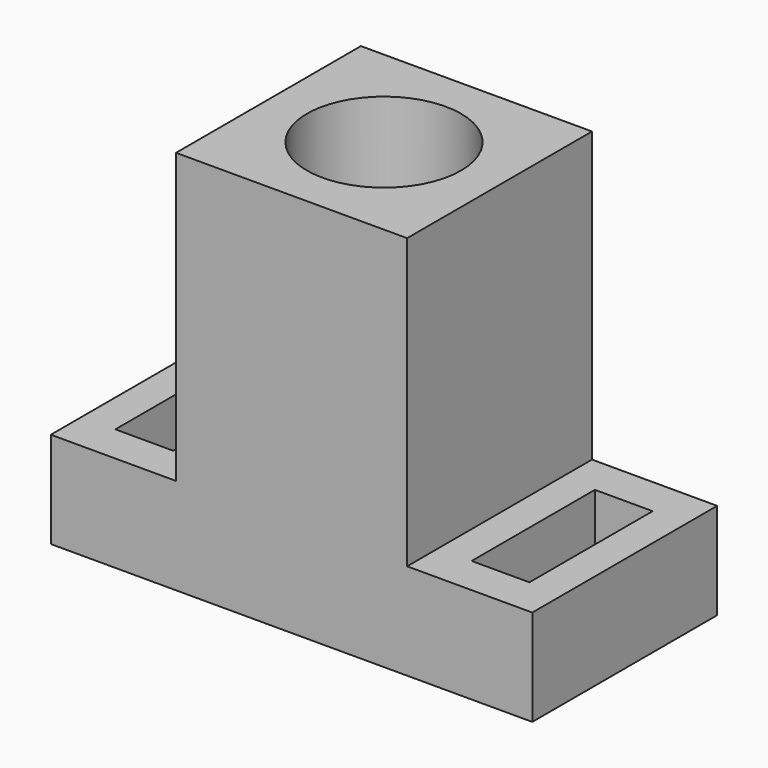
from build123d import *

# Parameters (mm, degrees)
F0_W     = 12
F0_H     = 12
F0_R     = 4
F1_DEPTH = 15
F2_W     = 25
F2_H     = 12
F3_DEPTH = 5
F4_W     = 3
F4_H     = 8
F5_DEPTH = 5


with BuildPart() as f1:
    # F0 (on Top) → F1 (new body)
    with BuildSketch(Plane.XY):
        Rectangle(F0_W, F0_H)
        Circle(F0_R, mode=Mode.SUBTRACT)
    extrude(amount=F1_DEPTH)

    # F2 (on face) → F3 (join)
    with BuildSketch(Plane(origin=(0, 0, 0), x_dir=(1, 0, 0), z_dir=(0, 0, -1))):
        Rectangle(F2_W, F2_H)
    extrude(amount=F3_DEPTH)

    # F4 (on face) → F5 (cut)
    with BuildSketch(Plane.XY):
        with Locations((-9.25, 0)):
            Rectangle(F4_W, F4_H)
        with Locations((9.25, 0)):
            Rectangle(F4_W, F4_H)
    extrude(amount=-F5_DEPTH, mode=Mode.SUBTRACT)


solid = f1.part
